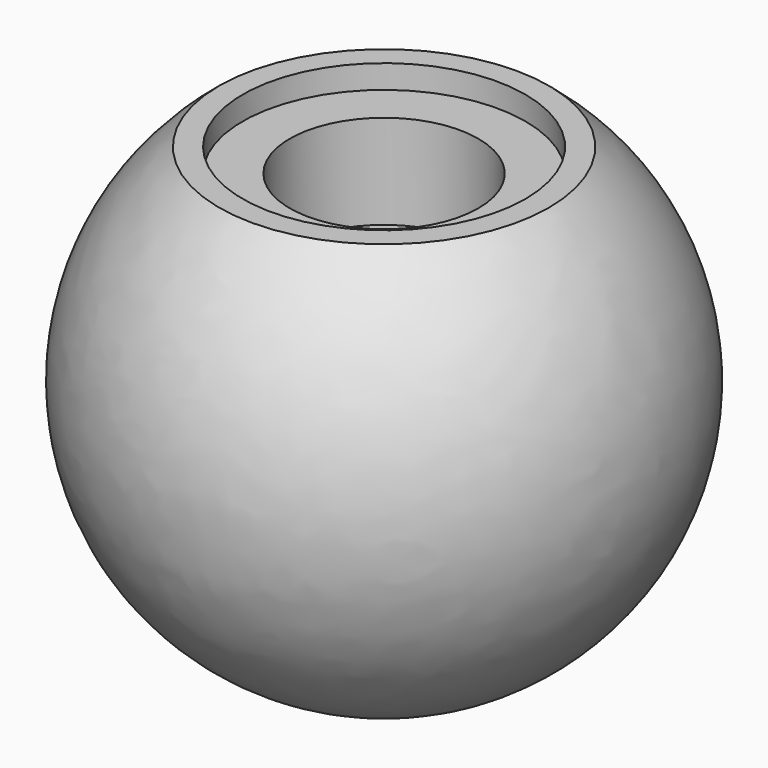
from build123d import *

# Parameters (mm, degrees)
F2_R      = 15
F3_DEPTH  = 2.5
F4_R      = 10
F5_DEPTH  = 10
F6_R      = 7
F7_DEPTH  = 37.358493
F9_R      = 12.5
F10_DEPTH = 25


with BuildPart() as f1:
    # F0 (on Front) → F1 (revolve)
    with BuildSketch(Plane.XZ):
        with BuildLine():
            Line((0, 21.857493), (-17.5, 21.857493))
            ThreePointArc((-17.5, 21.857493), (-26.419782, -9.273354), (0, -28))
            Line((0, -28), (0, 21.857493))
        make_face()
    revolve(axis=Axis((0, 0, -3.071254), (0, 0, -1)))

    # F2 (on face) → F3 (cut)
    with BuildSketch(Plane.XY.offset(21.857493)):
        Circle(F2_R)
    extrude(amount=-F3_DEPTH, mode=Mode.SUBTRACT)

    # F4 (on face) → F5 (cut)
    with BuildSketch(Plane.XY.offset(19.357493)):
        Circle(F4_R)
    extrude(amount=-F5_DEPTH, mode=Mode.SUBTRACT)

    # F6 (on face) → F7 (cut, through all)
    with BuildSketch(Plane.XY.offset(9.357493)):
        Circle(F6_R)
    extrude(amount=-F7_DEPTH, mode=Mode.SUBTRACT)

    # F9 (on offset) → F10 (cut)
    with BuildSketch(Plane.XY.offset(-15)):
        Circle(F9_R)
    extrude(amount=-F10_DEPTH, mode=Mode.SUBTRACT)


solid = f1.part
